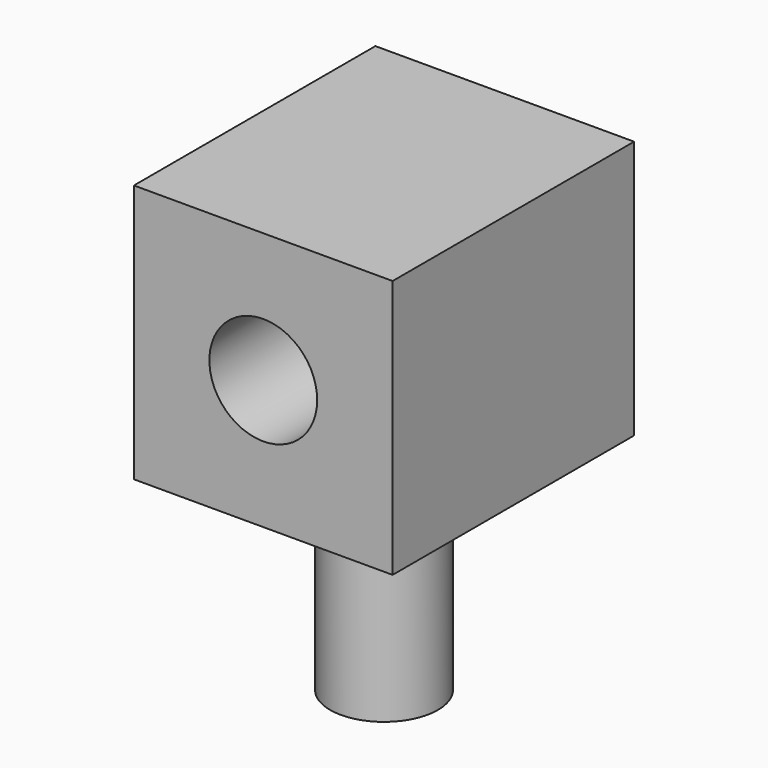
from build123d import *

# Parameters (mm, degrees)
SKETCH044_W     = 6
SKETCH044_H     = 6
PAD022_DEPTH    = 7
SKETCH046_R     = 1.25
POCKET013_DEPTH = 5.6
SKETCH047_R     = 1.25
PAD024_DEPTH    = 4.75


with BuildPart() as part:
    # Sketch044 → Pad022 (new body)
    with BuildSketch(Plane(origin=(-25.08, 0, 0), x_dir=(1, 0, 0), z_dir=(0, -1, 0))):
        with Locations((145, 14)):
            Rectangle(SKETCH044_W, SKETCH044_H)
    extrude(amount=-PAD022_DEPTH)

    # Sketch046 (on Face5 of Pad022) → Pocket013 (cut)
    with BuildSketch(Plane.XZ):
        with Locations((119.92, 14)):
            Circle(SKETCH046_R)
    extrude(amount=-POCKET013_DEPTH, mode=Mode.SUBTRACT)

    # Sketch047 → Pad024 (join)
    with BuildSketch(Plane(origin=(0, 0, 11), x_dir=(1, 0, 0), z_dir=(0, 0, -1))):
        with Locations((119.92, -3.5)):
            Circle(SKETCH047_R)
    extrude(amount=PAD024_DEPTH)


with BuildPart() as part_1:
    # Body009 placement: moved
    add(part.part.moved(Location((0, 11, 0))))


solid = part_1.part
